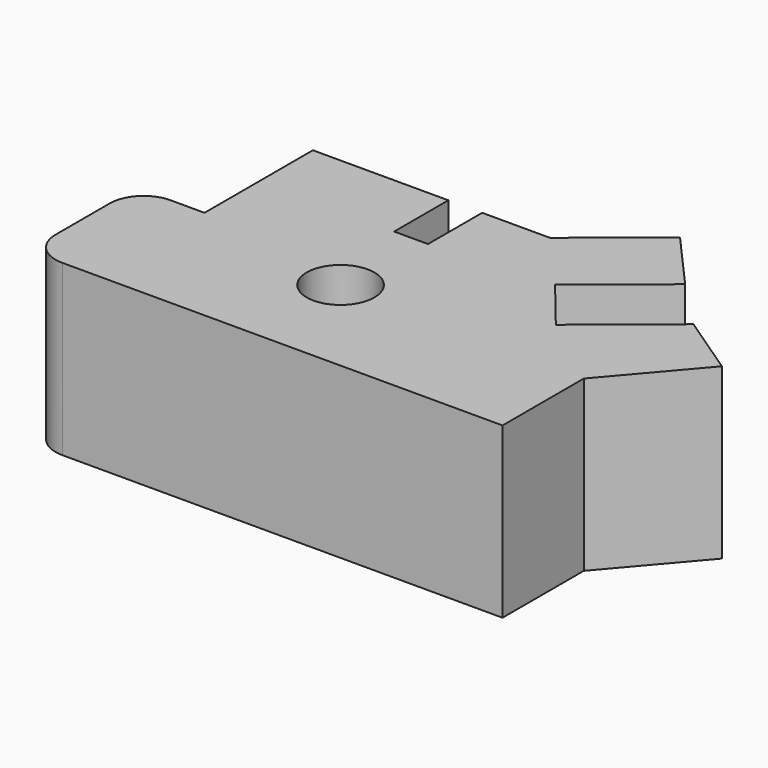
from build123d import *

# Parameters (mm, degrees)
F0_R     = 5
F1_DEPTH = 25
F2_DEPTH = 25


with BuildPart() as f1:
    # F0 (on Top) → F1 (new body)
    with BuildSketch(Plane.XY):
        with BuildLine():
            Line((-37.271081, -27.341548), (27.728919, -27.341548))
            Line((27.728919, -27.341548), (27.728919, -12.341548))
            Line((27.728919, -12.341548), (38.254101, 0))
            Line((38.254101, 0), (29.131456, 6.146329))
            Line((29.131456, 6.146329), (16.831115, -3.876174))
            Line((16.831115, -3.876174), (10.514384, 3.876174))
            Line((10.514384, 3.876174), (22.142908, 13.35127))
            Line((22.142908, 13.35127), (14.383989, 22.100874))
            Line((14.383989, 22.100874), (2.728919, 12.658452))
            Line((2.728919, 12.658452), (-7.271081, 12.658452))
            Line((-7.271081, 12.658452), (-7.271081, 2.658452))
            Line((-7.271081, 2.658452), (-12.271081, 2.658452))
            Line((-12.271081, 2.658452), (-12.271081, 12.658452))
            Line((-12.271081, 12.658452), (-32.271081, 12.658452))
            Line((-32.271081, 12.658452), (-32.271081, -7.341548))
            Line((-32.271081, -7.341548), (-37.271081, -7.341548))
            ThreePointArc((-37.271081, -7.341548), (-40.806615, -8.806014), (-42.271081, -12.341548))
            Line((-42.271081, -12.341548), (-42.271081, -22.341548))
            ThreePointArc((-42.271081, -22.341548), (-40.806615, -25.877082), (-37.271081, -27.341548))
        make_face()
        with Locations((-8.769282, -11.614208)):
            Circle(F0_R, mode=Mode.SUBTRACT)
    extrude(amount=F1_DEPTH)

    # F0 (on Top) → F2 (join)
    with BuildSketch(Plane.XY):
        with BuildLine():
            Line((-37.271081, -27.341548), (27.728919, -27.341548))
            Line((27.728919, -27.341548), (27.728919, -12.341548))
            Line((27.728919, -12.341548), (38.254101, 0))
            Line((38.254101, 0), (29.131456, 6.146329))
            Line((29.131456, 6.146329), (16.831115, -3.876174))
            Line((16.831115, -3.876174), (10.514384, 3.876174))
            Line((10.514384, 3.876174), (22.142908, 13.35127))
            Line((22.142908, 13.35127), (14.383989, 22.100874))
            Line((14.383989, 22.100874), (2.728919, 12.658452))
            Line((2.728919, 12.658452), (-7.271081, 12.658452))
            Line((-7.271081, 12.658452), (-7.271081, 2.658452))
            Line((-7.271081, 2.658452), (-12.271081, 2.658452))
            Line((-12.271081, 2.658452), (-12.271081, 12.658452))
            Line((-12.271081, 12.658452), (-32.271081, 12.658452))
            Line((-32.271081, 12.658452), (-32.271081, -7.341548))
            Line((-32.271081, -7.341548), (-37.271081, -7.341548))
            ThreePointArc((-37.271081, -7.341548), (-40.806615, -8.806014), (-42.271081, -12.341548))
            Line((-42.271081, -12.341548), (-42.271081, -22.341548))
            ThreePointArc((-42.271081, -22.341548), (-40.806615, -25.877082), (-37.271081, -27.341548))
        make_face()
        with Locations((-8.769282, -11.614208)):
            Circle(F0_R, mode=Mode.SUBTRACT)
    extrude(amount=F2_DEPTH)


solid = f1.part
